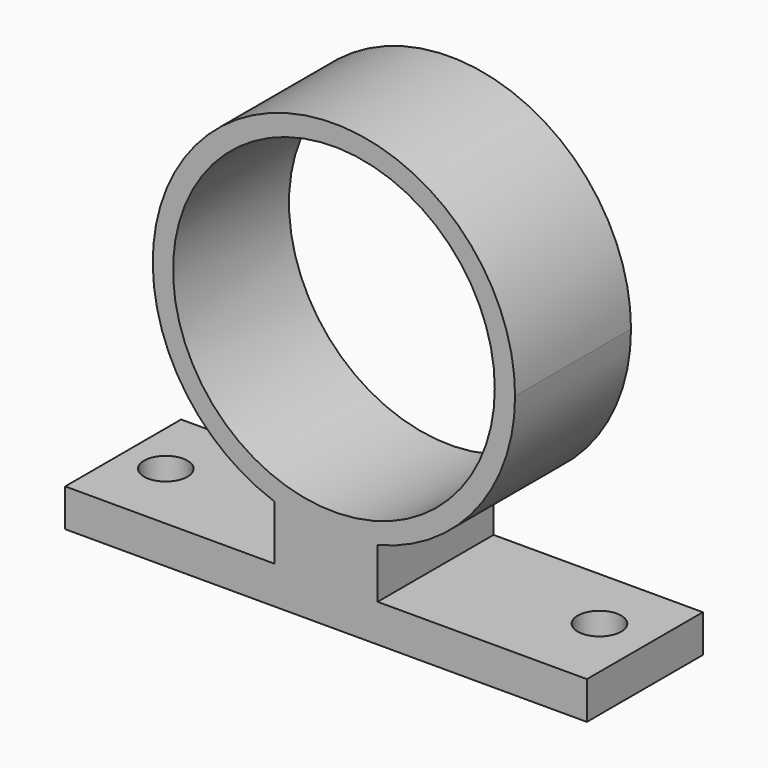
from build123d import *

# Parameters (mm, degrees)
F0_R     = 14.097
F0_W     = 9.0460923728
F0_H     = 1.651
F1_DEPTH = 12.7
F2_R     = 1.905
F3_DEPTH = 9.906


with BuildPart() as f1:
    # F0 (on Front) → F1 (new body)
    with BuildSketch(Plane.XZ):
        with BuildLine():
            ThreePointArc((-44.3100165959, 29.066805622), (-35.6349926122, 34.6952763024), (-32.2669383345, 44.4723890511))
            ThreePointArc((-32.2669383345, 44.4723890511), (-57.3408694186, 57.4105222978), (-53.3561089687, 29.4781218267))
            Line((-53.3561089687, 29.4781218267), (-44.3100165959, 29.4781218267))
            Line((-44.3100165959, 29.4781218267), (-44.3100165959, 29.066805622))
        make_face()
        with Locations((-48.1419383345, 44.4723890511)):
            Circle(F0_R, mode=Mode.SUBTRACT)
        with BuildLine():
            Line((-44.3100165959, 29.4781218267), (-53.3561089687, 29.4781218267))
            ThreePointArc((-53.3561089687, 29.4781218267), (-48.8630127116, 28.6137738296), (-44.3100165959, 29.066805622))
            Line((-44.3100165959, 29.066805622), (-44.3100165959, 29.4781218267))
        make_face()
        with BuildLine():
            ThreePointArc((-44.3100165959, 29.066805622), (-48.8630127116, 28.6137738296), (-53.3561089687, 29.4781218267))
            Line((-53.3561089687, 29.4781218267), (-53.3561089687, 24.6817949255))
            Line((-53.3561089687, 24.6817949255), (-44.3100165959, 24.6817949255))
            Line((-44.3100165959, 24.6817949255), (-44.3100165959, 29.066805622))
        make_face()
        with Locations((-48.8330627823, 23.8562949255)):
            Rectangle(F0_W, F0_H)
        Polygon((-53.3561089687, 23.0307949255), (-53.3561089687, 24.6817949255), (-71.6930627823, 24.6817949255), (-71.6930627823, 21.3797949255), (-25.9730627823, 21.3797949255), (-25.9730627823, 24.6817949255), (-44.3100165959, 24.6817949255), (-44.3100165959, 23.0307949255), align=None)
    extrude(amount=F1_DEPTH)

    # F2 (on face) → F3 (cut)
    with BuildSketch(Plane(origin=(0, 0, 21.3797949255), x_dir=(1, 0, 0), z_dir=(0, 0, -1))):
        with Locations((-67.9544433951, 6.35)):
            Circle(F2_R)
        with Locations((-30.4396469146, 5.7393233292)):
            Circle(F2_R)
    extrude(amount=-F3_DEPTH, mode=Mode.SUBTRACT)


solid = f1.part
